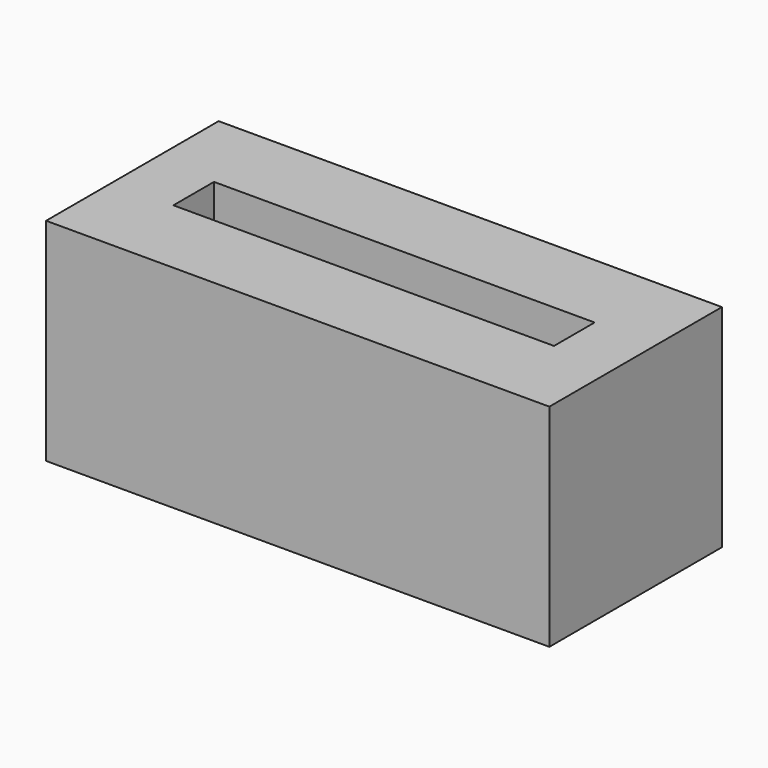
from build123d import *

# Parameters (mm, degrees)
SKETCH001_W      = 18
SKETCH001_H      = 2.4
EXTRUDE001_DEPTH = 5
SKETCH_W         = 23.8
SKETCH_H         = 10.2
EXTRUDE_DEPTH    = 10


with BuildPart() as extrude001:
    # Sketch001 (on Face6 of Extrude) → Extrude001 (new body)
    with BuildSketch(Plane.XY.offset(10)):
        Rectangle(SKETCH001_W, SKETCH001_H)
    extrude(amount=-EXTRUDE001_DEPTH)


with BuildPart() as cut:
    # Sketch → Extrude (new body)
    with BuildSketch(Plane.XY):
        Rectangle(SKETCH_W, SKETCH_H)
    extrude(amount=EXTRUDE_DEPTH)

    # Cut: cut Extrude001
    add(extrude001.part, mode=Mode.SUBTRACT)


solid = cut.part
